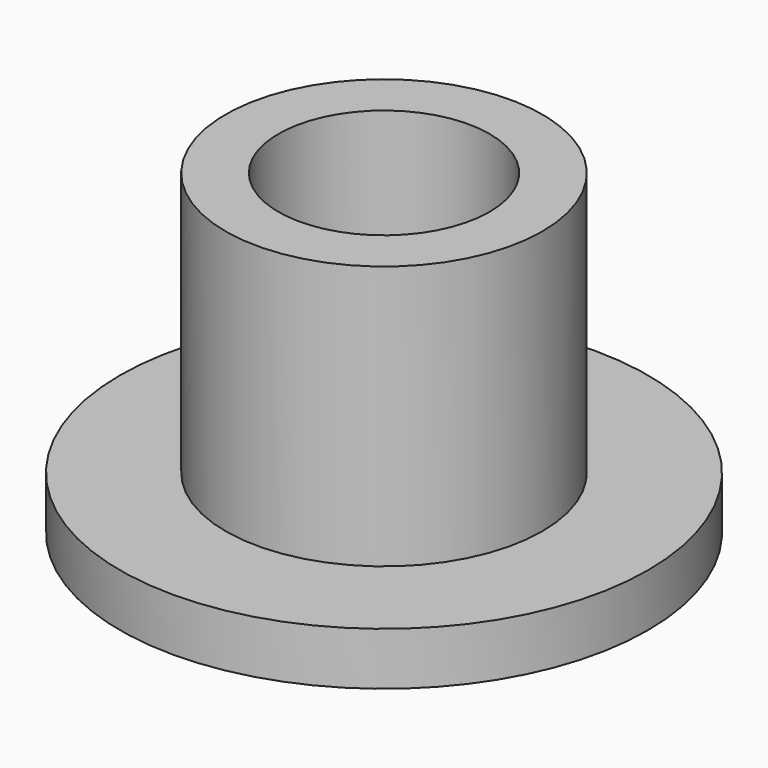
from build123d import *

# Parameters (mm, degrees)
F0_R     = 25
F0_R_2   = 15
F1_DEPTH = 5
F2_DEPTH = 30
F3_R     = 10
F4_DEPTH = 15
F5_R     = 23
F6_DEPTH = 2


with BuildPart() as f1:
    # F0 (on Top) → F1 (new body)
    with BuildSketch(Plane.XY):
        Circle(F0_R)
        Circle(F0_R_2, mode=Mode.SUBTRACT)
    extrude(amount=F1_DEPTH)

    # F0 (on Top) → F2 (join)
    with BuildSketch(Plane.XY):
        Circle(F0_R_2)
    extrude(amount=F2_DEPTH)

    # F3 (on face) → F4 (cut)
    with BuildSketch(Plane.XY.offset(30)):
        Circle(F3_R)
    extrude(amount=-F4_DEPTH, mode=Mode.SUBTRACT)

    # F5 (on face) → F6 (cut)
    with BuildSketch(Plane.XY):
        Circle(F5_R)
    extrude(amount=F6_DEPTH, mode=Mode.SUBTRACT)


solid = f1.part
